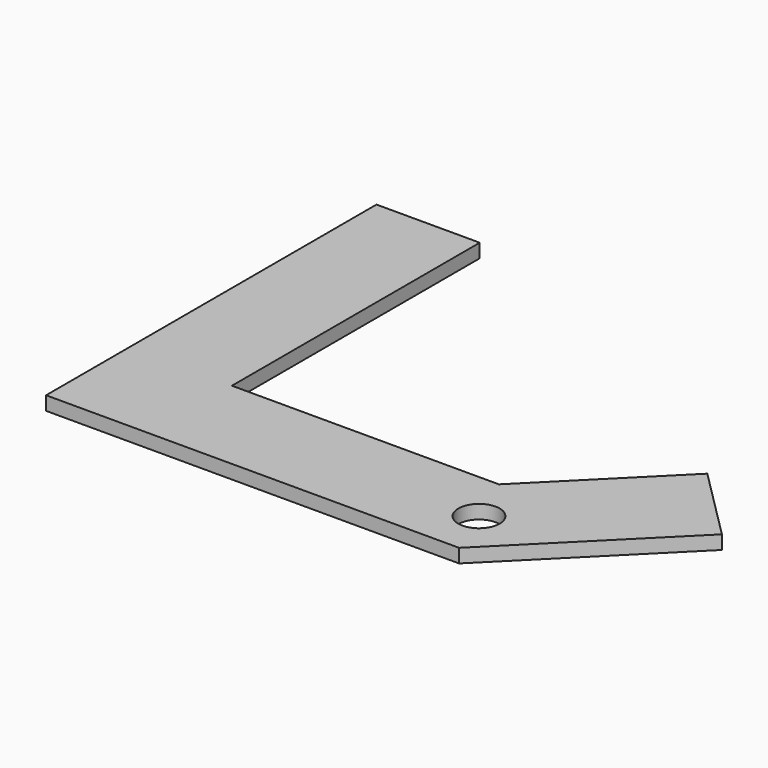
from build123d import *

# Parameters (mm, degrees)
F0_R     = 3
F1_DEPTH = 2


with BuildPart() as f1:
    # F0 (on Top) → F1 (new body)
    with BuildSketch(Plane.XY):
        Polygon((15, 60), (0, 60), (0, 0), (60, 0), (81.213203, 21.213203), (70.606602, 31.819805), (53.786797, 15), (15, 15), align=None)
        with Locations((56.893398, 7.5)):
            Circle(F0_R, mode=Mode.SUBTRACT)
    extrude(amount=F1_DEPTH)


solid = f1.part
